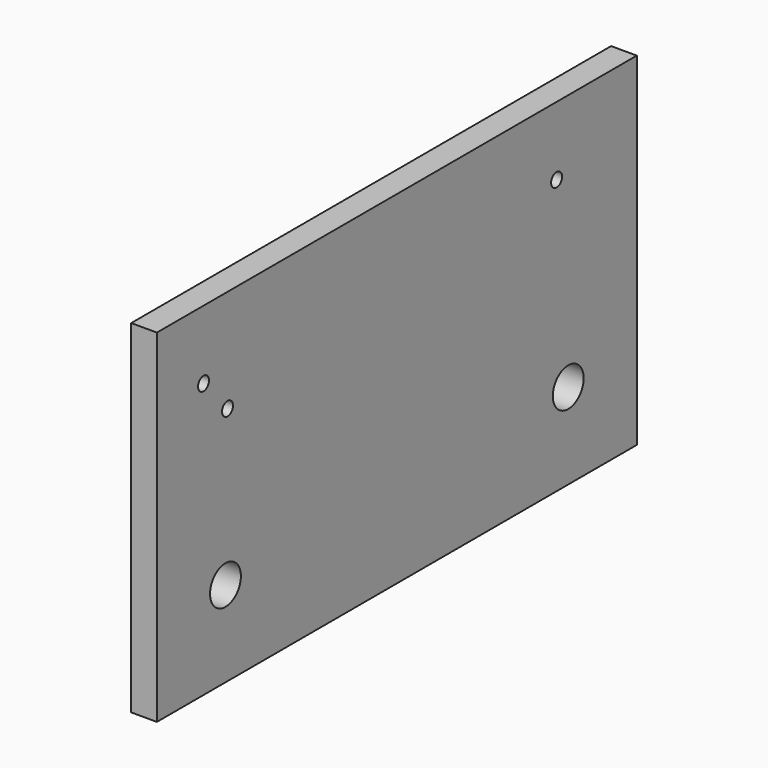
from build123d import *

# Parameters (mm, degrees)
SKETCH001_W             = 40
SKETCH001_H             = 70
PAD001_DEPTH            = 3
SKETCH002_R             = 2.25
HOLE_DEPTH              = 3.001
SKETCH003_R             = 0.8
HOLE001_DEPTH           = 3.001
BODY001_PLACEMENT_ANGLE = 90


with BuildPart() as part:
    # Sketch001 → Pad001 (new body)
    with BuildSketch(Plane.XY):
        Rectangle(SKETCH001_W, SKETCH001_H)
    extrude(amount=PAD001_DEPTH)

    # Sketch002 (on Face6 of Pad001) → Hole (cut, through all)
    with BuildSketch(Plane.XY.offset(3)):
        with Locations((10, 25)):
            Circle(SKETCH002_R)
        with Locations((10, -25)):
            Circle(SKETCH002_R)
    extrude(amount=-HOLE_DEPTH, mode=Mode.SUBTRACT)

    # Sketch003 (on Face5 of Hole) → Hole001 (cut, through all)
    with BuildSketch(Plane.XY.offset(3)):
        with Locations((-12, 23.3)):
            Circle(SKETCH003_R)
        with Locations((-12, -28.2)):
            Circle(SKETCH003_R)
        with Locations((-8, -24.7)):
            Circle(SKETCH003_R)
    extrude(amount=-HOLE001_DEPTH, mode=Mode.SUBTRACT)


with BuildPart() as part_1:
    # Body001 placement: moved
    add(part.part.moved(Location((-130, 139, -9))).rotate(Axis((-130, 139, -9), (0, 1, 0)), BODY001_PLACEMENT_ANGLE))


solid = part_1.part
